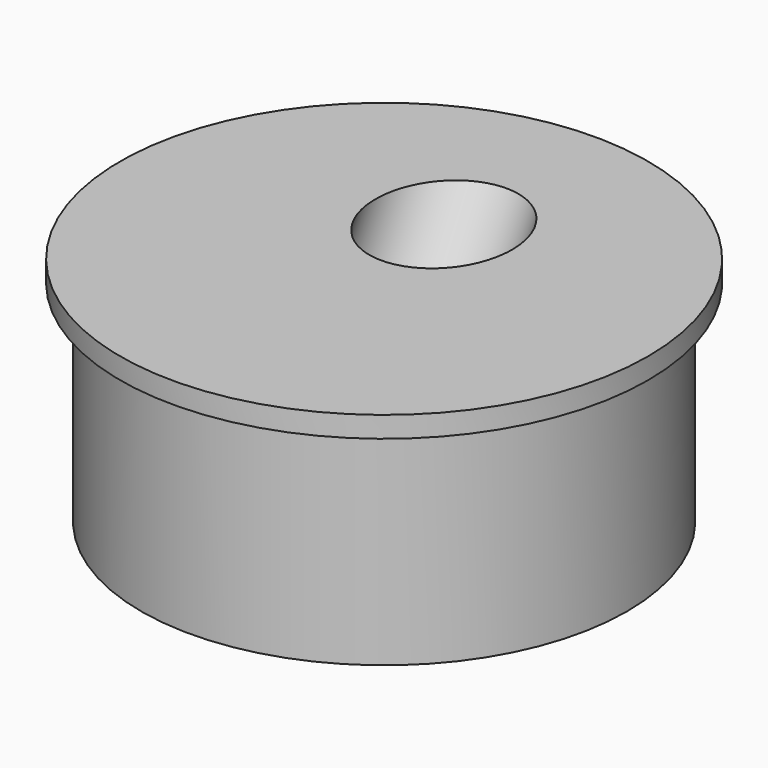
from build123d import *

# Parameters (mm, degrees)
F0_R     = 11.55
F1_DEPTH = 10
F2_R     = 12.55
F2_R_2   = 11.55
F3_DEPTH = 1
F7_R     = 3.25
F8_DEPTH = 27.57


with BuildPart() as f1:
    # F0 (on Top) → F1 (new body)
    with BuildSketch(Plane.XY):
        Circle(F0_R)
    extrude(amount=F1_DEPTH)

    # F2 (on face) → F3 (join)
    with BuildSketch(Plane.XY.offset(10)):
        Circle(F2_R)
        Circle(F2_R_2, mode=Mode.SUBTRACT)
        Circle(F2_R_2)
    extrude(amount=F3_DEPTH)

    # F7 (on face) → F8 (cut)
    with BuildSketch(Plane(origin=(0, 8.195943, 14.779569), x_dir=(1, 0, 0), z_dir=(0, 0.484968, 0.874532))):
        with Locations((0, -2.230057)):
            Circle(F7_R)
    extrude(amount=-F8_DEPTH, mode=Mode.SUBTRACT)


solid = f1.part
